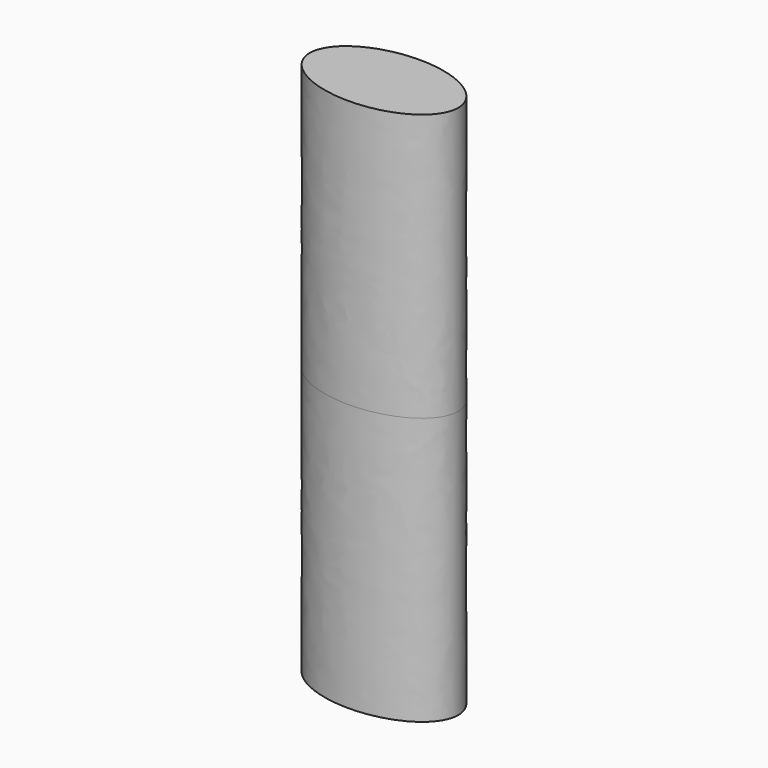
from build123d import *

# Parameters (mm, degrees)
F1_DEPTH      = 914.4
F1_DEPTH_BACK = 914.4


with BuildPart() as f1:
    # F0 (on Top) → F1 (new body, two sides)
    with BuildSketch(Plane.XY) as f1_sk:
        with BuildLine():
            add(Edge.make_bspline(
                [(254, 0), (254, 263.964543), (-127, 131.982272), (-508, 0), (-127, -131.982272), (254, -263.964543), (254, 0)],
                knots=[0, 0, 0, 2.094395, 2.094395, 4.18879, 4.18879, 6.283185, 6.283185, 6.283185], degree=2, weights=[1, 0.5, 1, 0.5, 1, 0.5, 1]))
        make_face()
    extrude(amount=F1_DEPTH)
    extrude(f1_sk.sketch, amount=-F1_DEPTH_BACK)


solid = f1.part
